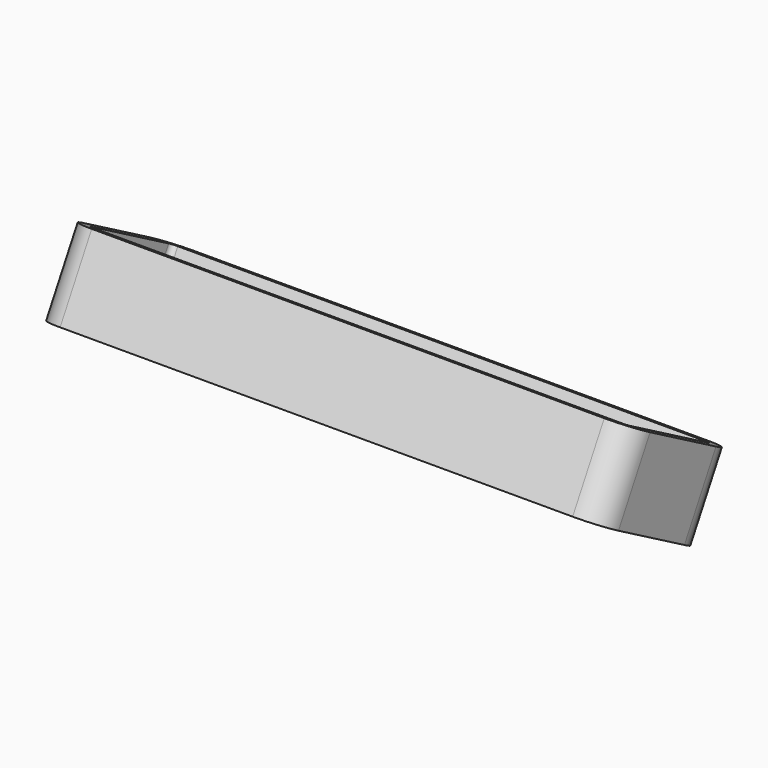
from build123d import *

# Parameters (mm, degrees)
PAD011_DEPTH    = 10.5
POCKET010_DEPTH = 5
FILLET005_R     = 1


with BuildPart() as part:
    # Sketch055 → Pad011 (new body, symmetric)
    with BuildSketch(Plane.YZ):
        Polygon((23.8941280101, -22.635866082), (28.6951768598, -25.3191346005), (27.2315758497, -27.9378885186), (22.430527, -25.25462), align=None)
    extrude(amount=PAD011_DEPTH, both=True)

    # Sketch056 (on Face1 of Pad011) → Pocket010 (cut)
    with BuildSketch(Plane(origin=(0, -3.9527461257, -7.0724666982), x_dir=(0, -0.8729179727, 0.4878670034), z_dir=(0, 0.4878670034, 0.8729179727))):
        with BuildLine():
            Line((-36.7009059356, 10), (-32.6009059356, 10))
            ThreePointArc((-32.4009059356, 9.8), (-32.4594845794, 9.9414213562), (-32.6009059356, 10))
            Line((-32.4009059356, 9.8), (-32.4009059356, -9.8))
            ThreePointArc((-32.6009059356, -10), (-32.4594845794, -9.9414213562), (-32.4009059356, -9.8))
            Line((-32.6009059356, -10), (-36.7009059356, -10))
            ThreePointArc((-36.9009059356, -9.8), (-36.8423272919, -9.9414213562), (-36.7009059356, -10))
            Line((-36.9009059356, -9.8), (-36.9009059356, 9.8))
            ThreePointArc((-36.7009059356, 10), (-36.8423272919, 9.9414213562), (-36.9009059356, 9.8))
        make_face()
    extrude(amount=-POCKET010_DEPTH, mode=Mode.SUBTRACT)

    # Fillet005
    fillet005_edges = [part.edges().sort_by_distance(p)[0] for p in [
        (10.5, 27.963376, -26.628512),
        (10.5, 23.162328, -23.945243),
        (-10.5, 27.963376, -26.628512),
        (-10.5, 23.162328, -23.945243),
    ]]
    fillet(fillet005_edges, radius=FILLET005_R)


solid = part.part
